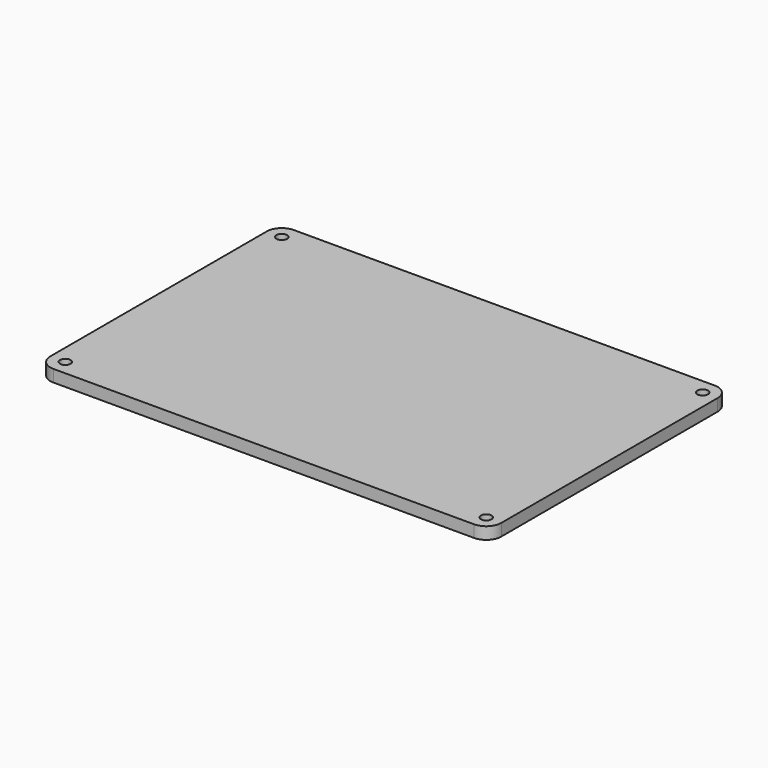
from build123d import *

# Parameters (mm, degrees)
F0_W     = 150
F0_H     = 100
F0_R     = 1.75
F1_DEPTH = 4
F2_R     = 5


with BuildPart() as f1:
    # F0 (on Top) → F1 (new body)
    with BuildSketch(Plane.XY):
        Rectangle(F0_W, F0_H)
        with Locations((-70, -45)):
            Circle(F0_R, mode=Mode.SUBTRACT)
        with Locations((70, -45)):
            Circle(F0_R, mode=Mode.SUBTRACT)
        with Locations((-70, 45)):
            Circle(F0_R, mode=Mode.SUBTRACT)
        with Locations((70, 45)):
            Circle(F0_R, mode=Mode.SUBTRACT)
    extrude(amount=F1_DEPTH)

    # F2
    f2_edges = [f1.edges().sort_by_distance(p)[0] for p in [
        (-75, 50, 2),
        (75, 50, 2),
        (75, -50, 2),
        (-75, -50, 2),
    ]]
    fillet(f2_edges, radius=F2_R)


solid = f1.part
